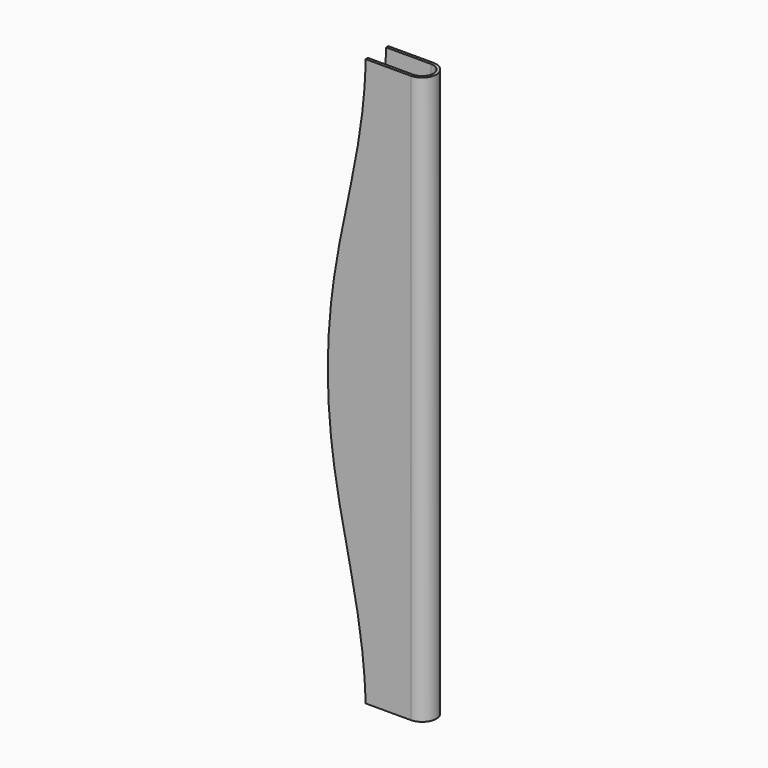
from build123d import *

# Parameters (mm, degrees)
F1_DEPTH = 200
F3_DEPTH = 12.5


with BuildPart() as f1:
    # F0 (on Top) → F1 (new body)
    with BuildSketch(Plane.XY):
        with BuildLine():
            ThreePointArc((0, 4), (4, 0), (0, -4))
            Line((0, -4), (-30.0997458398, -4))
            Line((-30.0997458398, -4), (-30.0997458398, -5))
            Line((-30.0997458398, -5), (0, -5))
            ThreePointArc((0, -5), (5, 0), (0, 5))
            Line((0, 5), (-30.0997458398, 5))
            Line((-30.0997458398, 5), (-30.0997458398, 4))
            Line((-30.0997458398, 4), (0, 4))
        make_face()
    extrude(amount=F1_DEPTH)

    # F2 (on Front) → F3 (cut, symmetric)
    with BuildSketch(Plane.XZ):
        with BuildLine():
            add(Edge.make_bspline(
                [(-15.9278102219, 200.2522498369), (-16.0491559654, 188.2925778627), (-19.3370868235, 166.3557608059), (-25.6488004446, 139.6158765189), (-29.2631052434, 115.303248167), (-29.274392873, 99.5392426848)],
                knots=[0, 0, 0, 0, 0.3350486636, 0.6327767174, 1, 1, 1, 1], degree=3))
            Line((-15.9278102219, 200.2522498369), (-15.9278102219, 211.9693905115))
            Line((-15.9278102219, 211.9693905115), (-58.805461973, 211.9693905115))
            Line((-58.805461973, 211.9693905115), (-58.805461973, -9.8512051627))
            Line((-58.805461973, -9.8512051627), (-15.9278102219, -12.8909051418))
            Line((-15.9278102219, -12.8909051418), (-15.9278102219, -1.1737644672))
            add(Edge.make_bspline(
                [(-15.9278102219, -1.1737644672), (-16.0491559654, 10.7859075069), (-19.3370868235, 32.7227245638), (-25.6488004446, 59.4626088508), (-29.2631052434, 83.7752372026), (-29.274392873, 99.5392426848)],
                knots=[0, 0, 0, 0, 0.3350486636, 0.6327767174, 1, 1, 1, 1], degree=3))
        make_face()
    extrude(amount=F3_DEPTH, both=True, mode=Mode.SUBTRACT)


solid = f1.part
